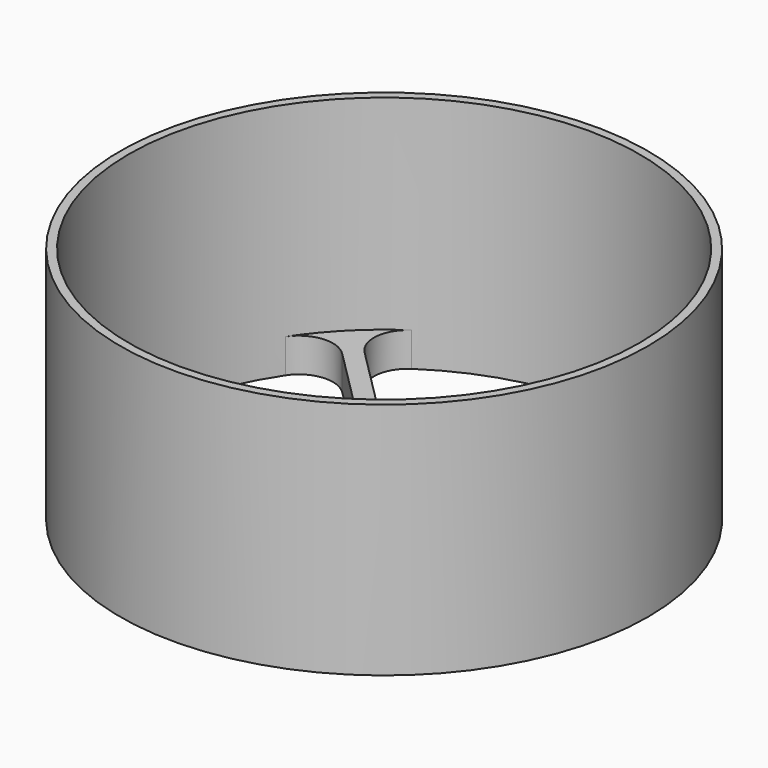
from build123d import *

# Parameters (mm, degrees)
F0_R      = 77.5
F0_R_2    = 75
F1_DEPTH  = 70
F2_R      = 1
F3_DEPTH  = 3
F4_R      = 30
F4_R_2    = 27
F5_DEPTH  = 10
F7_DEPTH  = 10
F10_DEPTH = 17
F12_R     = 10


with BuildPart() as f1:
    # F0 (on Top) → F1 (new body)
    with BuildSketch(Plane.XY):
        Circle(F0_R)
        Circle(F0_R_2, mode=Mode.SUBTRACT)
        Circle(F0_R)
        Circle(F0_R_2, mode=Mode.SUBTRACT)
    extrude(amount=F1_DEPTH)


with BuildPart() as f3:
    # F2 (on Top) → F3 (new body)
    with BuildSketch(Plane.XY):
        with BuildLine():
            Line((8.3085046789, -8.3085046789), (28.8265285805, -8.3085046789))
            ThreePointArc((28.8265285805, -8.3085046789), (30, 0), (28.8265285805, 8.3085046789))
            Line((28.8265285805, 8.3085046789), (8.3085046789, 8.3085046789))
            Line((8.3085046789, 8.3085046789), (8.3085046789, 28.8265285805))
            ThreePointArc((8.3085046789, 28.8265285805), (0, 30), (-8.3085046789, 28.8265285805))
            Line((-8.3085046789, 28.8265285805), (-8.3085046789, 8.3085046789))
            Line((-8.3085046789, 8.3085046789), (-28.8265285805, 8.3085046789))
            ThreePointArc((-28.8265285805, 8.3085046789), (-30, 0), (-28.8265285805, -8.3085046789))
            Line((-28.8265285805, -8.3085046789), (-8.3085046789, -8.3085046789))
            Line((-8.3085046789, -8.3085046789), (-8.3085046789, -28.8265285805))
            ThreePointArc((-8.3085046789, -28.8265285805), (0, -30), (8.3085046789, -28.8265285805))
            Line((8.3085046789, -28.8265285805), (8.3085046789, -8.3085046789))
        make_face()
        with Locations((0, -16.6170093579)):
            Circle(F2_R, mode=Mode.SUBTRACT)
        with Locations((-16.6170093579, 0)):
            Circle(F2_R, mode=Mode.SUBTRACT)
        with BuildLine():
            ThreePointArc((15.6170093579, 0), (16.6170093579, 1), (17.6170093579, 0))
            ThreePointArc((17.6170093579, 0), (16.6170093579, -1), (15.6170093579, 0))
        make_face(mode=Mode.SUBTRACT)
        with Locations((0, 16.6170093579)):
            Circle(F2_R, mode=Mode.SUBTRACT)
    extrude(amount=F3_DEPTH)

    # F4 (on Top) → F5 (join)
    with BuildSketch(Plane.XY):
        Circle(F4_R)
        Circle(F4_R_2, mode=Mode.SUBTRACT)
    extrude(amount=F5_DEPTH)


with BuildPart() as f7:
    # F6 (on Top) → F7 (new body)
    with BuildSketch(Plane.XY):
        with BuildLine():
            Line((-19.3094096744, -22.9596754774), (-22.9596754774, -19.3094096744))
            ThreePointArc((-22.9596754774, -19.3094096744), (-21.2132034356, -21.2132034356), (-19.3094096744, -22.9596754774))
        make_face()
        with BuildLine():
            ThreePointArc((-19.3094096744, -22.9596754774), (-21.2132034356, -21.2132034356), (-22.9596754774, -19.3094096744))
            Line((-22.9596754774, -19.3094096744), (-54.8267261784, -51.1764603754))
            Line((-54.8267261784, -51.1764603754), (-51.1764603754, -54.8267261784))
            Line((-51.1764603754, -54.8267261784), (-19.3094096744, -22.9596754774))
        make_face()
        with BuildLine():
            Line((-51.1764603754, -54.8267261784), (-54.8267261784, -51.1764603754))
            ThreePointArc((-54.8267261784, -51.1764603754), (-53.033008589, -53.033008589), (-51.1764603754, -54.8267261784))
        make_face()
    extrude(amount=F7_DEPTH)


with BuildPart() as f7b:
    # F6 (on Top) → F7, piece 2 (new body)
    with BuildSketch(Plane.XY):
        with BuildLine():
            ThreePointArc((51.1764603754, -54.8267261784), (53.033008589, -53.033008589), (54.8267261784, -51.1764603754))
            Line((54.8267261784, -51.1764603754), (22.9596754774, -19.3094096744))
            ThreePointArc((22.9596754774, -19.3094096744), (21.2132034356, -21.2132034356), (19.3094096744, -22.9596754774))
            Line((19.3094096744, -22.9596754774), (51.1764603754, -54.8267261784))
        make_face()
    extrude(amount=F7_DEPTH)


with BuildPart() as f7c:
    # F6 (on Top) → F7, piece 3 (new body)
    with BuildSketch(Plane.XY):
        with BuildLine():
            ThreePointArc((-51.1764603754, 54.8267261784), (-53.033008589, 53.033008589), (-54.8267261784, 51.1764603754))
            Line((-54.8267261784, 51.1764603754), (-22.9596754774, 19.3094096744))
            ThreePointArc((-22.9596754774, 19.3094096744), (-21.2132034356, 21.2132034356), (-19.3094096744, 22.9596754774))
            Line((-19.3094096744, 22.9596754774), (-51.1764603754, 54.8267261784))
        make_face()
    extrude(amount=F7_DEPTH)


with BuildPart() as f7d:
    # F6 (on Top) → F7, piece 4 (new body)
    with BuildSketch(Plane.XY):
        Polygon((14.0217830061, 26.418115506), (26.418115506, 14.0217830061), (59.726265439, 47.3299329391), (47.3299329391, 59.726265439), align=None)
    extrude(amount=F7_DEPTH)


with BuildPart() as f10_tool:
    # F9 (on offset) → F10 (new body)
    with BuildSketch(Plane.XY.offset(20)):
        Polygon((13.2823127623, 21.2434951856), (21.2434951856, 13.2823127623), (60.5607913141, 52.5996088908), (52.5996088908, 60.5607913141), align=None)
    extrude(amount=-F10_DEPTH)


with BuildPart() as f1_1:
    add(f1.part)

    # F10: cut by f10_tool
    add(f10_tool.part, mode=Mode.SUBTRACT)


with BuildPart() as f3_1:
    add(f3.part)

    # F10: cut by f10_tool
    add(f10_tool.part, mode=Mode.SUBTRACT)


with BuildPart() as f7d_1:
    add(f7d.part)

    # F10: cut by f10_tool
    add(f10_tool.part, mode=Mode.SUBTRACT)


with BuildPart() as f3_2:
    add(f3_1.part)

    # F11: union F7, F7b, F7c, F7d, F1
    add(f7.part)
    add(f7b.part)
    add(f7c.part)
    add(f7d_1.part)
    add(f1_1.part)

    # F12
    f12_edges = [f3_2.edges().sort_by_distance(p)[0] for p in [
        (-51.17646, 54.826726, 5),
        (-54.826726, 51.17646, 5),
        (58.867728, 46.471396, 5),
        (46.471396, 58.867728, 5),
        (51.17646, -54.826726, 5),
        (54.826726, -51.17646, 5),
        (-51.17646, -54.826726, 5),
        (-54.826726, -51.17646, 5),
        (-22.959675, -19.30941, 5),
        (-19.30941, -22.959675, 5),
        (22.959675, -19.30941, 5),
        (14.089336, 26.485668, 5),
        (26.485668, 14.089336, 5),
        (-19.30941, 22.959675, 5),
        (-22.959675, 19.30941, 5),
    ]]
    fillet(f12_edges, radius=F12_R)


solid = f3_2.part
